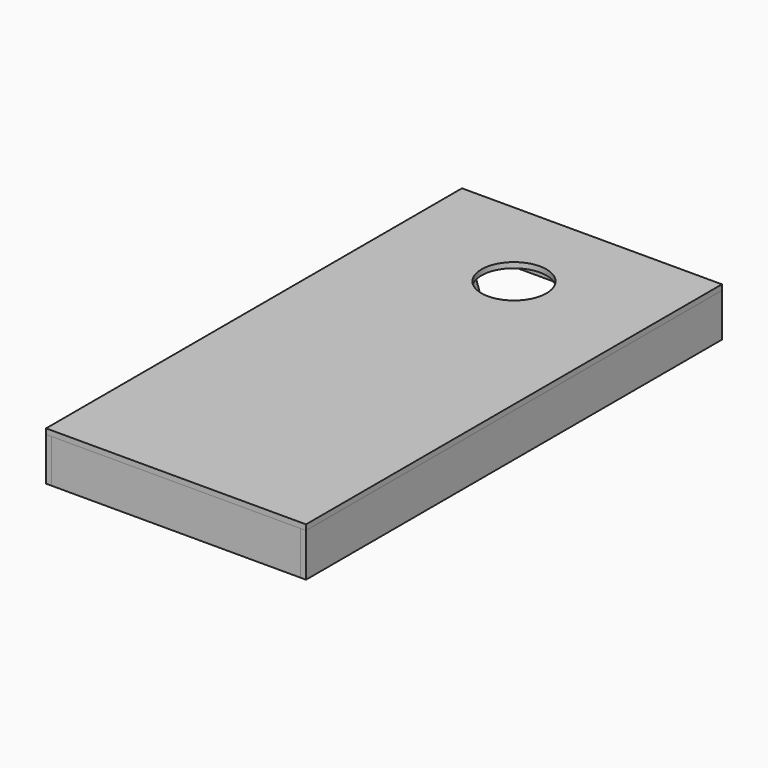
from build123d import *

# Parameters (mm, degrees)
F0_W     = 609.6
F0_H     = 1219.2
F0_R     = 76.2
F1_DEPTH = 12.7
F3_DEPTH = 101.6
F2_W     = 584.2
F2_H     = 12.7
F4_DEPTH = 101.6
F5_R     = 3.175
F6_DEPTH = 12.7
F7_R     = 3.175
F8_DEPTH = 12.701


with BuildPart() as f1:
    # F0 (on Top) → F1 (new body)
    with BuildSketch(Plane.XY):
        Rectangle(F0_W, F0_H)
        with Locations((0, 381)):
            Circle(F0_R, mode=Mode.SUBTRACT)
    extrude(amount=F1_DEPTH)


with BuildPart() as f3:
    # F2 (on face) → F3 (new body)
    with BuildSketch(Plane(origin=(0, 0, 0), x_dir=(1, 0, 0), z_dir=(0, 0, -1))):
        Polygon((-292.1, 609.6), (-304.8, 609.6), (-304.8, -609.6), (-292.1, -609.6), (-292.1, -596.9), (-292.1, 596.9), align=None)
        Polygon((304.8, 609.6), (292.1, 609.6), (292.1, 596.9), (292.1, -596.9), (292.1, -609.6), (304.8, -609.6), align=None)
    extrude(amount=F3_DEPTH)

    # F7 (on face) → F8 (cut, through all)
    with BuildSketch(Plane.YZ.offset(-292.1)):
        with Locations((533.4, -50.8)):
            Circle(F7_R)
    extrude(amount=-F8_DEPTH, mode=Mode.SUBTRACT)


with BuildPart() as f4:
    # F2 (on face) → F4 (new body)
    with BuildSketch(Plane(origin=(0, 0, 0), x_dir=(1, 0, 0), z_dir=(0, 0, -1))):
        with Locations((0, 603.25)):
            Rectangle(F2_W, F2_H)
        with Locations((0, -603.25)):
            Rectangle(F2_W, F2_H)
    extrude(amount=F4_DEPTH)


with BuildPart() as f6:
    # F5 (on face) → F6 (new body)
    with BuildSketch(Plane.YZ.offset(-292.1)):
        with BuildLine():
            ThreePointArc((491.17509, -64.687387), (540.432257, -94.690202), (577.85, -50.8))
            ThreePointArc((577.85, -50.8), (577.290202, -43.767743), (575.62491, -36.912613))
            ThreePointArc((575.62491, -36.912613), (519.512613, -8.57509), (491.17509, -64.687387))
        make_face()
        with Locations((533.4, -50.8)):
            Circle(F5_R, mode=Mode.SUBTRACT)
        with BuildLine():
            ThreePointArc((575.62491, -36.912613), (577.290202, -43.767743), (577.85, -50.8))
            ThreePointArc((577.85, -50.8), (540.432257, -94.690202), (491.17509, -64.687387))
            Line((491.17509, -64.687387), (564.890687, -288.821301))
            Line((564.890687, -288.821301), (663.653229, -304.56468))
            Line((663.653229, -304.56468), (575.62491, -36.912613))
        make_face()
    extrude(amount=F6_DEPTH)


solid = Compound([f1.part, f3.part, f4.part, f6.part])
